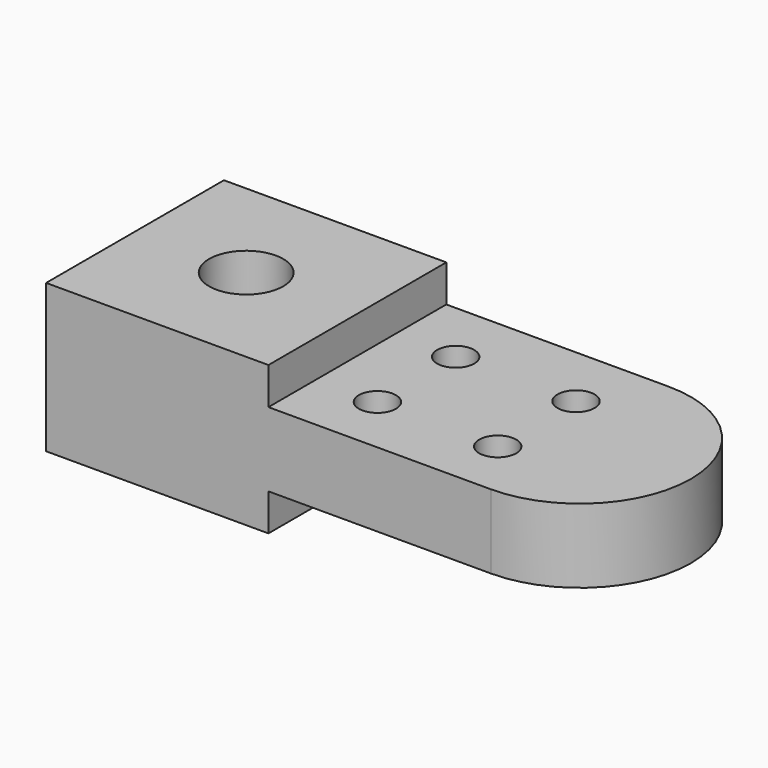
from build123d import *

# Parameters (mm, degrees)
F0_W     = 38.1
F0_H     = 38.1
F0_R     = 6.35
F0_R_2   = 3.175
F1_DEPTH = 25.4
F2_W     = 38.1
F2_H     = 6.35
F3_DEPTH = 38.101
F4_W     = 19.165852
F4_H     = 6.453032
F4_H_2   = 6.35
F5_DEPTH = 38.101


with BuildPart() as f1:
    # F0 (on Top) → F1 (new body)
    with BuildSketch(Plane.XY):
        with Locations((19.05, 19.05)):
            Rectangle(F0_W, F0_H)
        with Locations((19.05, 19.05)):
            Circle(F0_R, mode=Mode.SUBTRACT)
        with BuildLine():
            Line((38.1, 38.1), (38.1, 0))
            Line((38.1, 0), (76.2, 0))
            ThreePointArc((76.2, 0), (95.25, 19.05), (76.2, 38.1))
            Line((76.2, 38.1), (38.1, 38.1))
        make_face()
        with Locations((48.55017, 10.277208)):
            Circle(F0_R_2, mode=Mode.SUBTRACT)
        with Locations((69.168031, 10.277208)):
            Circle(F0_R_2, mode=Mode.SUBTRACT)
        with Locations((48.55017, 27.046405)):
            Circle(F0_R_2, mode=Mode.SUBTRACT)
        with Locations((69.168031, 27.046405)):
            Circle(F0_R_2, mode=Mode.SUBTRACT)
    extrude(amount=F1_DEPTH)

    # F2 (on face) → F3 (cut, through all)
    with BuildSketch(Plane.XZ):
        with Locations((57.15, 22.225)):
            Rectangle(F2_W, F2_H)
        with Locations((57.15, 3.175)):
            Rectangle(F2_W, F2_H)
    extrude(amount=-F3_DEPTH, mode=Mode.SUBTRACT)

    # F4 (on face) → F5 (cut, through all)
    with BuildSketch(Plane.XZ):
        with Locations((85.782926, 22.276516)):
            Rectangle(F4_W, F4_H)
        with Locations((85.782926, 3.175)):
            Rectangle(F4_W, F4_H_2)
    extrude(amount=-F5_DEPTH, mode=Mode.SUBTRACT)


solid = f1.part
